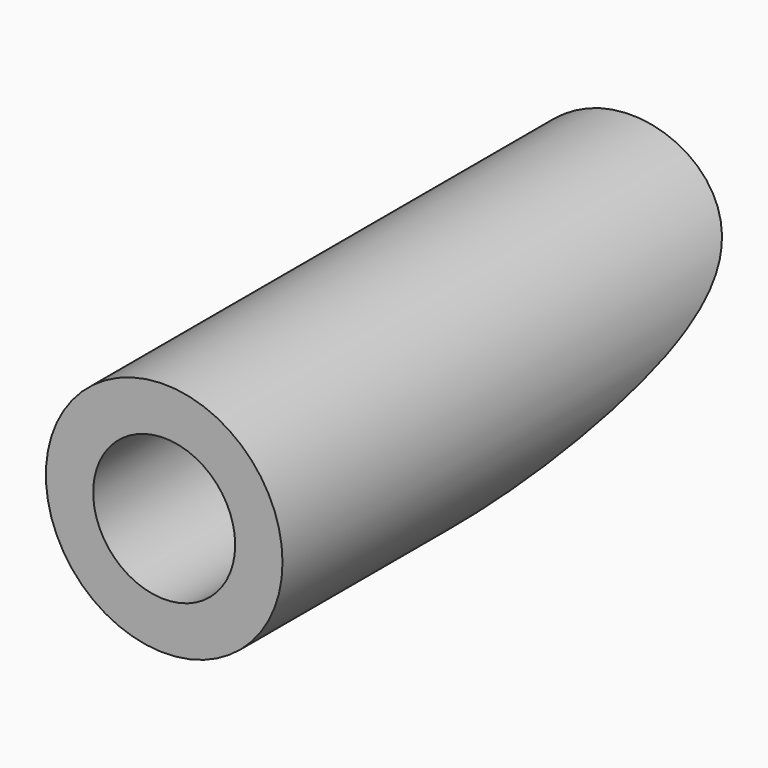
from build123d import *

# Parameters (mm, degrees)
F0_R          = 7.9375
F0_R_2        = 4.7625
F1_DEPTH      = 44.45
F1_DEPTH_BACK = 3.175
F4_R          = 9.525
F5_DEPTH      = 42.4645791982
F5_DEPTH_BACK = 6.719380657


with BuildPart() as f1:
    # F0 (on Front) → F1 (new body, two sides)
    with BuildSketch(Plane.XZ) as f1_sk:
        Circle(F0_R)
        Circle(F0_R_2, mode=Mode.SUBTRACT)
    extrude(amount=F1_DEPTH)
    extrude(f1_sk.sketch, amount=-F1_DEPTH_BACK)

    # F4 (on face) → F5 (cut, two sides)
    with BuildSketch(Plane(origin=(0, 0, 0), x_dir=(-1, 0, 0), z_dir=(0, 0.8660254038, 0.5))) as f5_sk:
        Circle(F4_R)
    extrude(amount=-F5_DEPTH, mode=Mode.SUBTRACT)
    extrude(f5_sk.sketch, amount=F5_DEPTH_BACK, mode=Mode.SUBTRACT)


solid = f1.part
